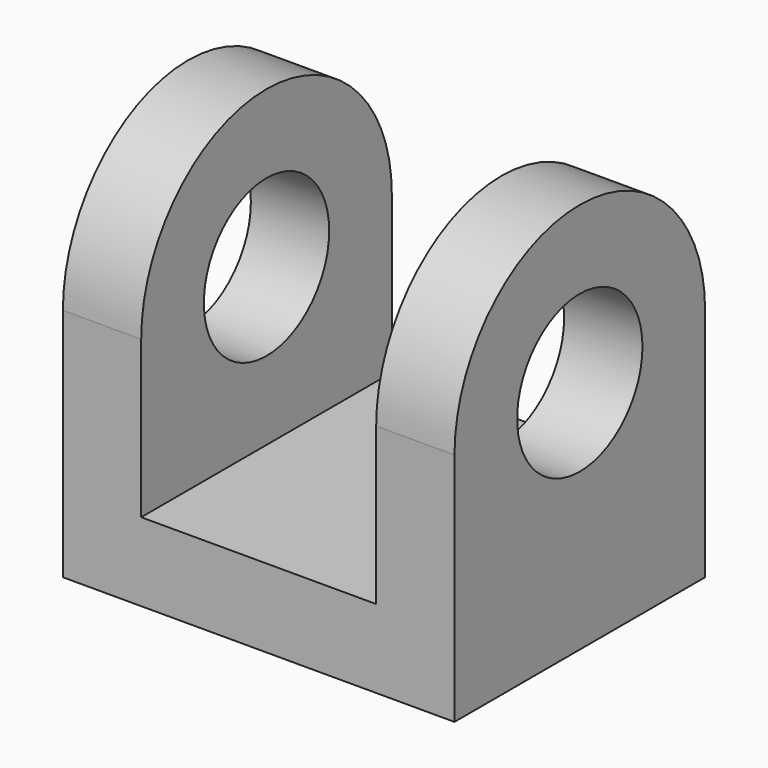
from build123d import *

# Parameters (mm, degrees)
F1_DEPTH = 4
F3_DEPTH = 1
F5_DEPTH = 1
F6_R     = 1
F7_DEPTH = 6


with BuildPart() as f1:
    # F0 (on Front) → F1 (new body)
    with BuildSketch(Plane.XZ):
        Polygon((0, 3), (0, 0), (5, 0), (5, 3), (4, 3), (4, 1), (1, 1), (1, 3), align=None)
    extrude(amount=F1_DEPTH)

    # F2 (on face) → F3 (join)
    with BuildSketch(Plane.YZ.offset(1)):
        with BuildLine():
            Line((-4, 3), (0, 3))
            ThreePointArc((0, 3), (-2, 5), (-4, 3))
        make_face()
    extrude(amount=-F3_DEPTH)

    # F4 (on face) → F5 (join)
    with BuildSketch(Plane.YZ.offset(5)):
        with BuildLine():
            Line((-4, 3), (0, 3))
            ThreePointArc((0, 3), (-2, 5), (-4, 3))
        make_face()
    extrude(amount=-F5_DEPTH)

    # F6 (on face) → F7 (cut)
    with BuildSketch(Plane.YZ.offset(5)):
        with Locations((-2, 3)):
            Circle(F6_R)
    extrude(amount=-F7_DEPTH, mode=Mode.SUBTRACT)


solid = f1.part
